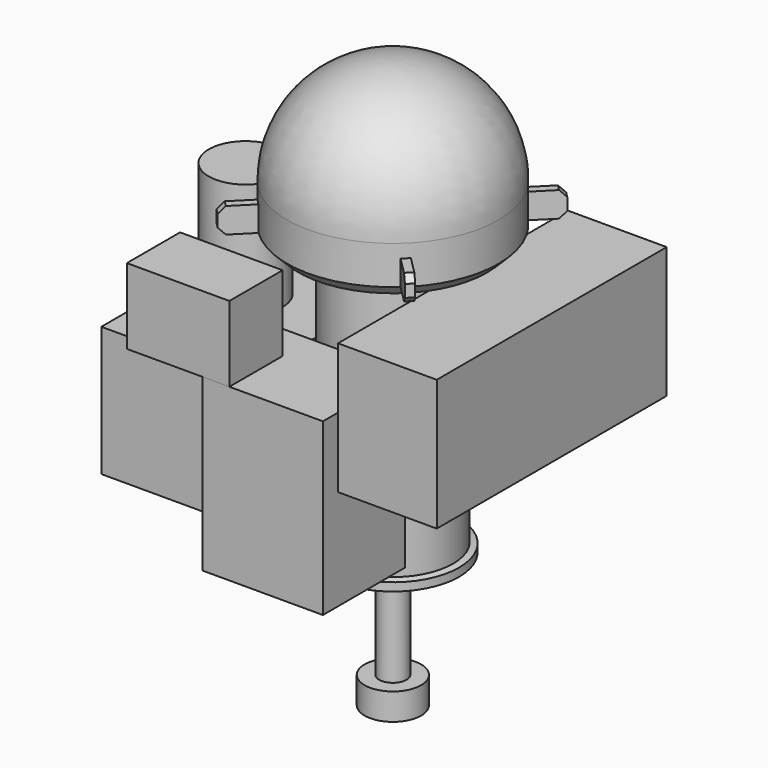
from build123d import *

# Parameters (mm, degrees)
F2_SIZE   = 35
F3_R      = 8
F4_R      = 42.3
F5_DEPTH  = 416.6
F7_W      = 890
F7_H      = 405.8
F8_DEPTH  = 305.8
F10_W     = 692
F10_H     = 401.7
F11_DEPTH = 440
F12_R     = 114
F13_DEPTH = 356.5
F15_W     = 372.2
F15_H     = 528.2
F16_DEPTH = 317.5
F18_W     = 372.2
F18_H     = 434.4
F19_DEPTH = 317.5
F20_W     = 317.5
F20_H     = 206
F21_DEPTH = 234
F22_W     = 261.8
F22_H     = 132.1
F23_DEPTH = 68.7
F24_W     = 261.8
F24_H     = 132.1
F25_DEPTH = 70.4
F26_R     = 87.5
F27_DEPTH = 83
F30_DEPTH = 78
F31_SIZE  = 20


with BuildPart() as f1:
    # F0 (on Front) → F1 (revolve)
    with BuildSketch(Plane.XZ):
        with BuildLine():
            Line((-205, 0), (0, 0))
            Line((0, 0), (0, 25.3))
            Line((0, 25.3), (-18.9, 29.6))
            Line((-18.9, 29.6), (-18.9, 858.7))
            Line((-18.9, 858.7), (122.8, 858.7))
            Line((122.8, 858.7), (122.8, 1013))
            ThreePointArc((122.8, 1013), (26.6183567342, 1243.801776423), (-205, 1338))
            Line((-205, 1338), (-205, 0))
        make_face()
    revolve(axis=Axis((-205, 0, 856.7140548392), (0, 0, -1)))

    # F2
    f2_edges = [f1.edges().sort_by_distance(p)[0] for p in [
        (-532.8, 0, 858.7),
    ]]
    chamfer(f2_edges, length=F2_SIZE)

    # F3
    f3_edges = [f1.edges().sort_by_distance(p)[0] for p in [
        (-391.1, 0, 858.7),
    ]]
    fillet(f3_edges, radius=F3_R)

    # F4 (on face) → F5 (join)
    with BuildSketch(Plane(origin=(0, 0, 0), x_dir=(1, 0, 0), z_dir=(0, 0, -1))):
        with Locations((-205, 0)):
            Circle(F4_R)
    extrude(amount=F5_DEPTH)

    # F7 (on offset) → F8 (join)
    with BuildSketch(Plane.YZ.offset(-18.9)):
        with Locations((0, 608.7)):
            Rectangle(F7_W, F7_H)
    extrude(amount=F8_DEPTH)

    # F10 (on offset) → F11 (join)
    with BuildSketch(Plane.YZ.offset(-391.1)):
        with Locations((0, 351.45)):
            Rectangle(F10_W, F10_H)
    extrude(amount=-F11_DEPTH)

    # F12 (on face) → F13 (join)
    with BuildSketch(Plane.XY.offset(552.3)):
        with Locations((-667.1, 7.5)):
            Circle(F12_R)
    extrude(amount=F13_DEPTH)

    # F26 (on face) → F27 (join)
    with BuildSketch(Plane(origin=(0, 0, -416.6), x_dir=(1, 0, 0), z_dir=(0, 0, -1))):
        with Locations((-205, 0)):
            Circle(F26_R)
    extrude(amount=-F27_DEPTH)

    # F29 (on offset) → F30 (join)
    with BuildSketch(Plane(origin=(0, 0, 893.7), x_dir=(1, 0, 0), z_dir=(0, 0, -1))):
        Polygon((28.5272183069, 223.0921894644), (99.2378964256, 293.802867583), (81.5602268959, 311.4805371127), (10.8495487772, 240.769858994), align=None)
        Polygon((-431.0921894644, 236.5272183069), (-501.802867583, 307.2378964256), (-519.4805371127, 289.5602268959), (-448.769858994, 218.8495487772), align=None)
        Polygon((15.0921894644, -236.5272183069), (85.802867583, -307.2378964256), (103.4805371127, -289.5602268959), (32.769858994, -218.8495487772), align=None)
        Polygon((-444.5272183069, -223.0921894644), (-515.2378964256, -293.802867583), (-497.5602268959, -311.4805371127), (-426.8495487772, -240.769858994), align=None)
    extrude(amount=-F30_DEPTH)

    # F31
    f31_edges = [f1.edges().sort_by_distance(p)[0] for p in [
        (90.399062, -302.641702, 971.7),
        (90.399062, -302.641702, 893.7),
        (94.641702, 298.399062, 971.7),
        (94.641702, 298.399062, 893.7),
        (-506.399062, 302.641702, 971.7),
        (-506.399062, 302.641702, 893.7),
        (-510.641702, -298.399062, 971.7),
        (-510.641702, -298.399062, 893.7),
    ]]
    chamfer(f31_edges, length=F31_SIZE)


with BuildPart() as f16:
    # F15 (on offset) → F16 (new body)
    with BuildSketch(Plane.XZ.offset(186.1)):
        with Locations((-205, 358.6)):
            Rectangle(F15_W, F15_H)
    extrude(amount=F16_DEPTH)

    # F24 (on face) → F25 (join, through all)
    with BuildSketch(Plane.XY.offset(622.7)):
        with Locations((-522, -252.15)):
            Rectangle(F24_W, F24_H)
    extrude(amount=-F25_DEPTH)


with BuildPart() as f19:
    # F18 (on offset) → F19 (new body)
    with BuildSketch(Plane.XZ.offset(-186.1)):
        with Locations((-205, 403.8)):
            Rectangle(F18_W, F18_H)
    extrude(amount=-F19_DEPTH)

    # F22 (on face) → F23 (join, through all)
    with BuildSketch(Plane.XY.offset(621)):
        with Locations((-522, 252.15)):
            Rectangle(F22_W, F22_H)
    extrude(amount=-F23_DEPTH)


with BuildPart() as f21:
    # F20 (on face) → F21 (new body)
    with BuildSketch(Plane.XY.offset(622.7)):
        with Locations((-467.25, -400.6)):
            Rectangle(F20_W, F20_H)
    extrude(amount=F21_DEPTH)


solid = Compound([f1.part, f16.part, f19.part, f21.part])
